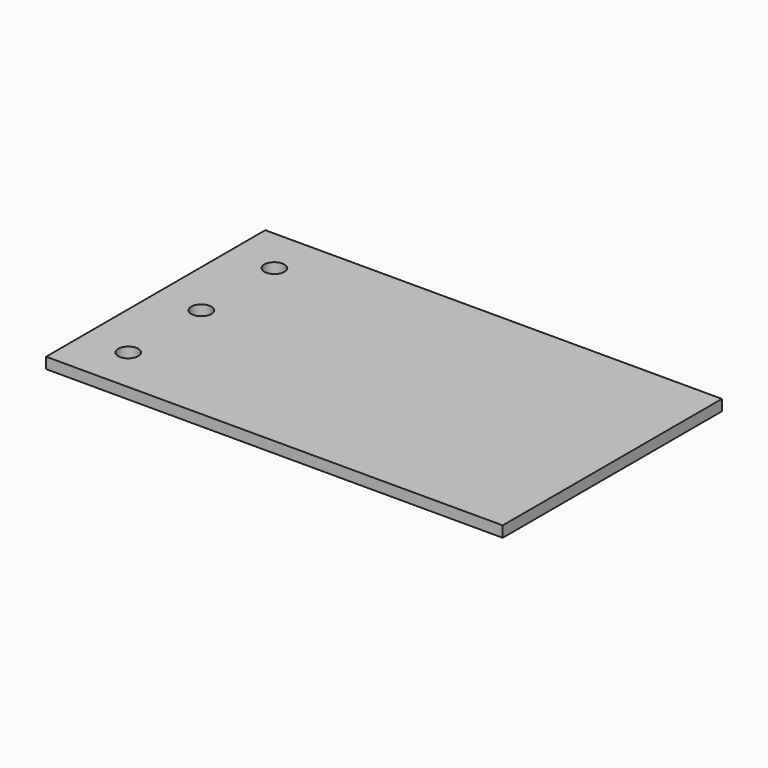
from build123d import *

# Parameters (mm, degrees)
F0_W     = 250
F0_H     = 150
F1_DEPTH = 6
F2_D     = 11
F2_DEPTH = 6


with BuildPart() as f1:
    # F0 (on Top) → F1 (new body)
    with BuildSketch(Plane.XY):
        Rectangle(F0_W, F0_H)
    extrude(amount=F1_DEPTH)

    # F2
    with Locations(Plane(origin=(0, 0, 0), x_dir=(1, 0, 0), z_dir=(0, 0, -1))):
        with Locations((-100, 50), (-100, 0), (-100, -50)):
            Hole(F2_D / 2, depth=F2_DEPTH)


solid = f1.part
